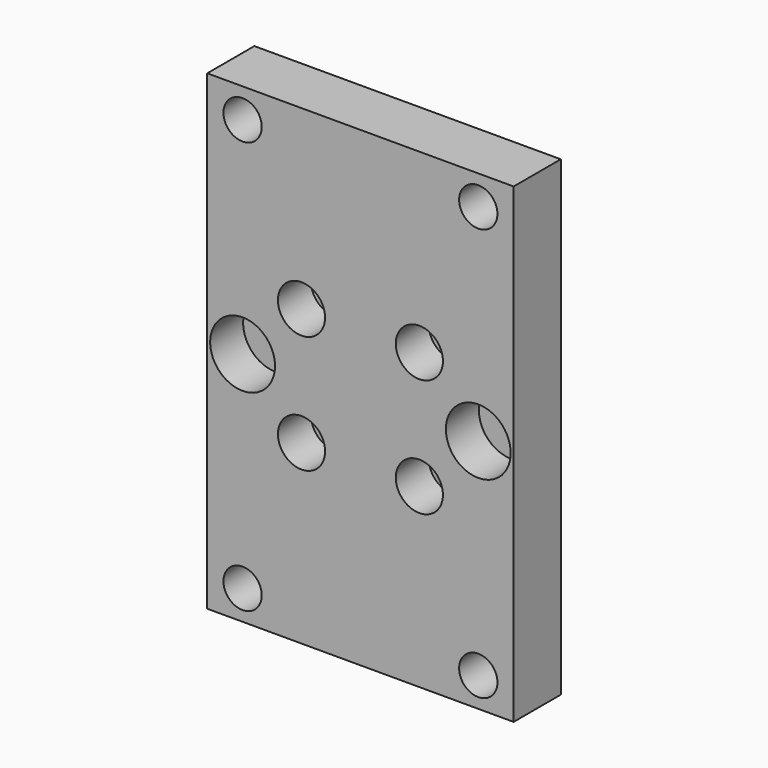
from build123d import *

# Parameters (mm, degrees)
F0_W     = 52
F0_H     = 80
F0_R     = 3.25
F0_R_2   = 1.75
F1_DEPTH = 10
F2_R     = 5.5
F3_DEPTH = 7
F4_R     = 4
F5_DEPTH = 7


with BuildPart() as f1:
    # F0 (on Front) → F1 (new body)
    with BuildSketch(Plane.XZ):
        Rectangle(F0_W, F0_H)
        with Locations((-20, -35)):
            Circle(F0_R, mode=Mode.SUBTRACT)
        with Locations((-10, -10)):
            Circle(F0_R_2, mode=Mode.SUBTRACT)
        with Locations((20, -35)):
            Circle(F0_R, mode=Mode.SUBTRACT)
        with Locations((10, -10)):
            Circle(F0_R_2, mode=Mode.SUBTRACT)
        with Locations((-10, 10)):
            Circle(F0_R_2, mode=Mode.SUBTRACT)
        with Locations((-20, 35)):
            Circle(F0_R, mode=Mode.SUBTRACT)
        with Locations((10, 10)):
            Circle(F0_R_2, mode=Mode.SUBTRACT)
        with Locations((20, 35)):
            Circle(F0_R, mode=Mode.SUBTRACT)
    extrude(amount=F1_DEPTH)

    # F2 (on face) → F3 (cut)
    with BuildSketch(Plane.XZ.offset(10)):
        with Locations((-20, 0)):
            Circle(F2_R)
        with Locations((20, 0)):
            Circle(F2_R)
    extrude(amount=-F3_DEPTH, mode=Mode.SUBTRACT)

    # F4 (on face) → F5 (cut)
    with BuildSketch(Plane.XZ.offset(10)):
        with Locations((-10, 10)):
            Circle(F4_R)
        with Locations((10, 10)):
            Circle(F4_R)
        with Locations((-10, -10)):
            Circle(F4_R)
        with Locations((10, -10)):
            Circle(F4_R)
    extrude(amount=-F5_DEPTH, mode=Mode.SUBTRACT)


solid = f1.part
